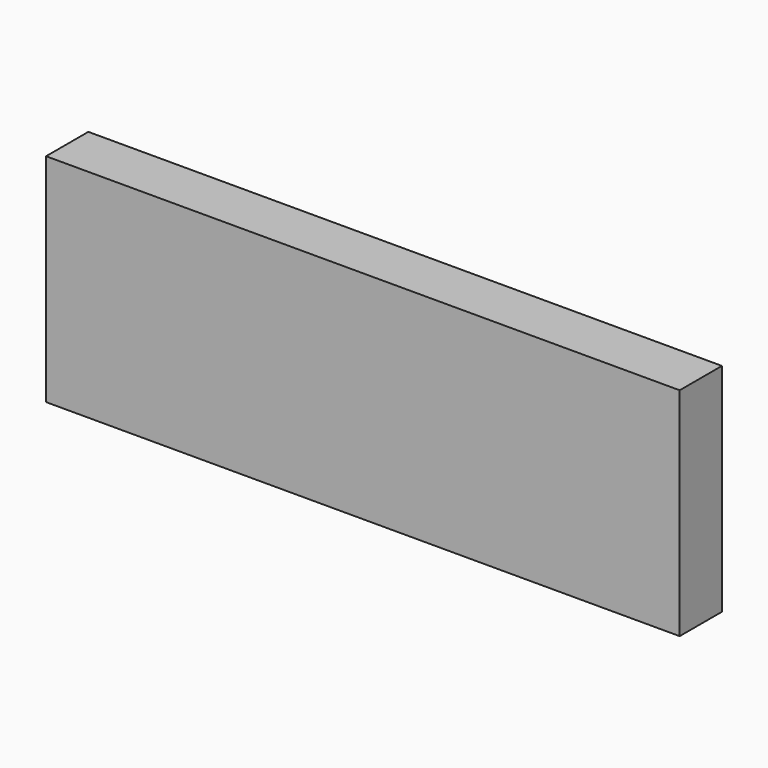
from build123d import *

# Parameters (mm, degrees)
F0_W     = 5
F0_H     = 32.5
F1_DEPTH = 60
F2_W     = 5
F2_H     = 12
F3_DEPTH = 60


with BuildPart() as f1:
    # F0 (on Right) → F1 (new body)
    with BuildSketch(Plane.YZ):
        with Locations((-2.5, 16.25)):
            Rectangle(F0_W, F0_H)
    extrude(amount=F1_DEPTH)

    # F2 (on Right) → F3 (cut)
    with BuildSketch(Plane.YZ):
        with Locations((-2.5, 6)):
            Rectangle(F2_W, F2_H)
    extrude(amount=F3_DEPTH, mode=Mode.SUBTRACT)


solid = f1.part
